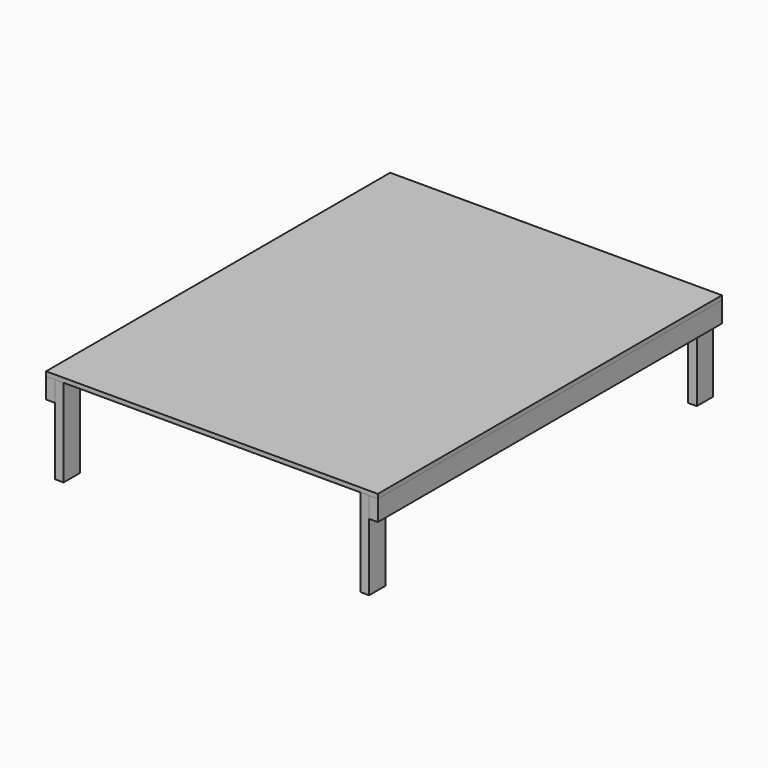
from build123d import *

# Parameters (mm, degrees)
F0_W     = 1440.18
F0_H     = 1866.9
F1_DEPTH = 19.05
F2_W     = 38.1
F2_H     = 88.9
F3_DEPTH = 1866.9
F4_W     = 38.1
F4_H     = 88.9
F5_DEPTH = 381
F6_W     = 1363.98
F6_H     = 88.9
F7_DEPTH = 38.1


with BuildPart() as f1:
    # F0 (on Top) → F1 (new body)
    with BuildSketch(Plane.XY):
        Rectangle(F0_W, F0_H)
    extrude(amount=F1_DEPTH)


with BuildPart() as f3:
    # F2 (on face) → F3 (new body, through all)
    with BuildSketch(Plane.XZ.offset(933.45)):
        with Locations((701.04, -44.45)):
            Rectangle(F2_W, F2_H)
        with Locations((-701.04, -44.45)):
            Rectangle(F2_W, F2_H)
    extrude(amount=-F3_DEPTH)


with BuildPart() as f5:
    # F4 (on face) → F5 (new body)
    with BuildSketch(Plane(origin=(0, 0, 0), x_dir=(1, 0, 0), z_dir=(0, 0, -1))):
        with Locations((-662.94, 889)):
            Rectangle(F4_W, F4_H)
        with Locations((662.94, 889)):
            Rectangle(F4_W, F4_H)
        with Locations((-662.94, -889)):
            Rectangle(F4_W, F4_H)
        with Locations((662.94, -889)):
            Rectangle(F4_W, F4_H)
    extrude(amount=F5_DEPTH)


with BuildPart() as f7:
    # F6 (on face) → F7 (new body)
    with BuildSketch(Plane(origin=(0, 0, 0), x_dir=(1, 0, 0), z_dir=(0, 0, -1))):
        Rectangle(F6_W, F6_H)
    extrude(amount=F7_DEPTH)


solid = Compound([f1.part, f3.part, f5.part, f7.part])
